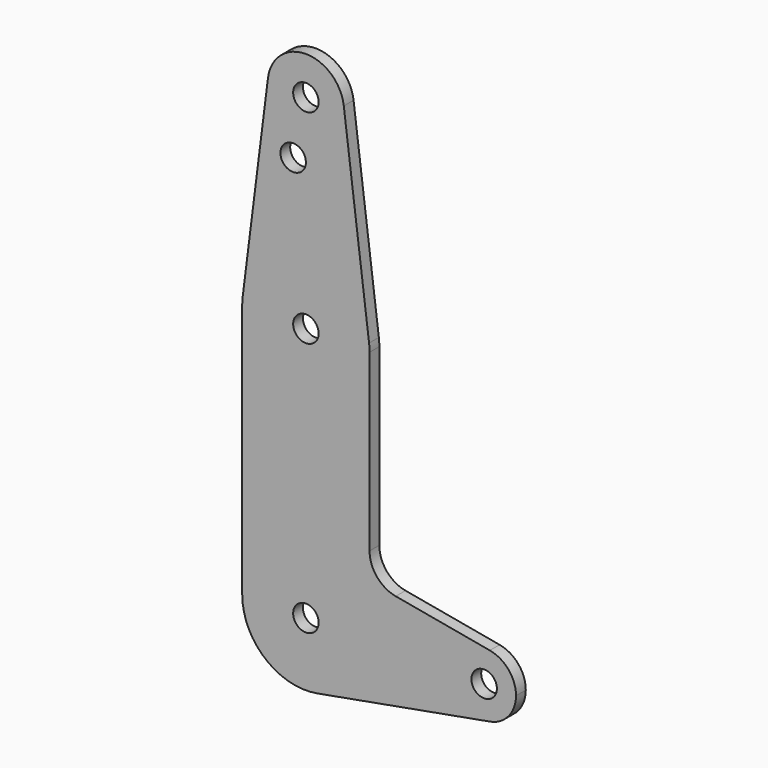
from build123d import *

# Parameters (mm, degrees)
F0_R     = 3.175
F1_DEPTH = 3.048


with BuildPart() as f1:
    # F0 (on Front) → F1 (new body)
    with BuildSketch(Plane.XZ):
        with BuildLine():
            ThreePointArc((-27.823383, 88.464874), (-27.767371, 87.870732), (-27.748676, 87.274249))
            ThreePointArc((-27.748676, 87.274249), (-37.870159, 77.767944), (-46.723969, 88.464874))
            Line((-46.723969, 88.464874), (-53.024164, 38.458624))
            ThreePointArc((-53.024164, 38.458624), (-37.273676, 52.349249), (-21.523187, 38.458624))
            Line((-21.523187, 38.458624), (-27.823383, 88.464874))
        make_face()
        with Locations((-40.448676, 72.999449)):
            Circle(F0_R, mode=Mode.SUBTRACT)
        with BuildLine():
            ThreePointArc((-46.723969, 88.464874), (-37.870159, 77.767944), (-27.748676, 87.274249))
            ThreePointArc((-27.748676, 87.274249), (-27.767371, 87.870732), (-27.823383, 88.464874))
            ThreePointArc((-27.823383, 88.464874), (-37.273676, 96.799249), (-46.723969, 88.464874))
        make_face()
        with Locations((-37.273676, 87.274249)):
            Circle(F0_R, mode=Mode.SUBTRACT)
        with BuildLine():
            ThreePointArc((-21.398676, 36.474249), (-21.429834, 37.468387), (-21.523187, 38.458624))
            ThreePointArc((-21.523187, 38.458624), (-37.273676, 52.349249), (-53.024164, 38.458624))
            ThreePointArc((-53.024164, 38.458624), (-53.117517, 37.468387), (-53.148676, 36.474249))
            ThreePointArc((-53.148676, 36.474249), (-37.273676, 20.599249), (-21.398676, 36.474249))
        make_face()
        with Locations((-37.273676, 36.474249)):
            Circle(F0_R, mode=Mode.SUBTRACT)
        with BuildLine():
            Line((-21.398676, -7.135352), (-21.398676, 36.474249))
            ThreePointArc((-21.398676, 36.474249), (-37.273676, 20.599249), (-53.148676, 36.474249))
            Line((-53.148676, 36.474249), (-53.148676, -27.025751))
            ThreePointArc((-53.148676, -27.025751), (-37.273676, -11.150751), (-21.398676, -27.025751))
            ThreePointArc((-21.398676, -27.025751), (-25.08724, -37.199562), (-34.438854, -42.645592))
            Line((-34.438854, -42.645592), (8.593735, -34.835671))
            ThreePointArc((8.593735, -34.835671), (-0.761176, -27.025751), (8.593735, -19.215831))
            Line((8.593735, -19.215831), (-14.868154, -14.957768))
            ThreePointArc((-14.868154, -14.957768), (-19.551442, -12.230396), (-21.398676, -7.135352))
        make_face()
        with BuildLine():
            ThreePointArc((-21.398676, -27.025751), (-37.273676, -11.150751), (-53.148676, -27.025751))
            ThreePointArc((-53.148676, -27.025751), (-47.447486, -39.212187), (-34.438854, -42.645592))
            ThreePointArc((-34.438854, -42.645592), (-25.08724, -37.199562), (-21.398676, -27.025751))
        make_face()
        with Locations((-37.273676, -27.025751)):
            Circle(F0_R, mode=Mode.SUBTRACT)
        with BuildLine():
            ThreePointArc((15.113824, -27.025751), (13.269542, -21.938846), (8.593735, -19.215831))
            ThreePointArc((8.593735, -19.215831), (-0.761176, -27.025751), (8.593735, -34.835671))
            ThreePointArc((8.593735, -34.835671), (13.269542, -32.112656), (15.113824, -27.025751))
        make_face()
        with Locations((7.176324, -27.025751)):
            Circle(F0_R, mode=Mode.SUBTRACT)
    extrude(amount=F1_DEPTH)


solid = f1.part
